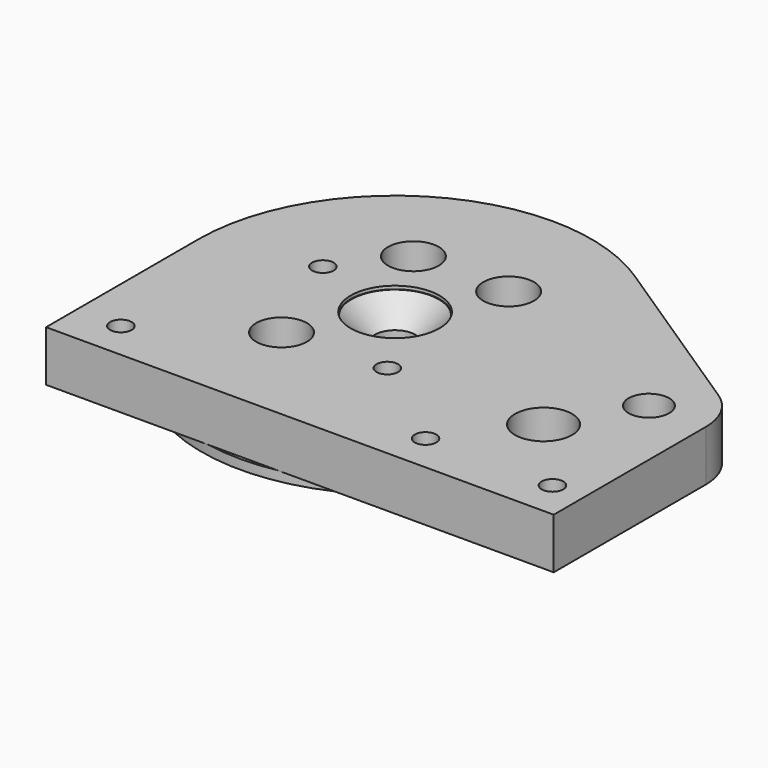
from build123d import *

# Parameters (mm, degrees)
SKETCH_R             = 3.2
SKETCH_R_2           = 1.7
SKETCH_R_3           = 4.5
SKETCH_R_4           = 4
SKETCH_W             = 1.5
SKETCH_H             = 4
PAD_DEPTH            = 8
SKETCH027_R          = 0.15
SKETCH028_R          = 0.15
SKETCH003_R          = 3.2
POCKET001_DEPTH      = 8.001
POCKET001_DEPTH_BACK = 0.001
SKETCH004_R          = 7
POCKET_DEPTH         = 0.5
SKETCH029_R          = 2.6
POCKET002_DEPTH      = 5
SKETCH030_R          = 30.5
SKETCH030_R_2        = 29.5
PAD001_DEPTH         = 1.5
CHAMFER_SIZE         = 3.7
CHAMFER001_SIZE      = 3.7


with BuildPart() as part:
    # Sketch → Pad (new body)
    with BuildSketch(Plane.XY):
        with BuildLine():
            Line((49, -30), (-31, -30))
            Line((-31, -30), (-31, 0))
            ThreePointArc((0, 31), (-21.92031, 21.92031), (-31, 0))
            ThreePointArc((17.05, 25.890104), (8.899628, 29.69506), (0, 31))
            Line((17.05, 25.890104), (44.95, 7.516482))
            ThreePointArc((49, 0), (47.923068, 4.269075), (44.95, 7.516482))
            Line((49, 0), (49, -30))
        make_face()
        with Locations((40, 0)):
            Circle(SKETCH_R, mode=Mode.SUBTRACT)
        with Locations((-24, -24)):
            Circle(SKETCH_R_2, mode=Mode.SUBTRACT)
        with Locations((24, -24)):
            Circle(SKETCH_R_2, mode=Mode.SUBTRACT)
        with Locations((-14.488887, 3.882286)):
            Circle(SKETCH_R_2, mode=Mode.SUBTRACT)
        with Locations((8.603647, -12.287281)):
            Circle(SKETCH_R_2, mode=Mode.SUBTRACT)
        with Locations((44, -24)):
            Circle(SKETCH_R_2, mode=Mode.SUBTRACT)
        with Locations((33, -12)):
            Circle(SKETCH_R_3, mode=Mode.SUBTRACT)
        with Locations((-7.5, 12.990381)):
            Circle(SKETCH_R_4, mode=Mode.SUBTRACT)
        with Locations((7.5, 12.990381)):
            Circle(SKETCH_R_4, mode=Mode.SUBTRACT)
        with Locations((-7.5, -12.990381)):
            Circle(SKETCH_R_4, mode=Mode.SUBTRACT)
        with Locations((0.75, 0)):
            Rectangle(SKETCH_W, SKETCH_H, mode=Mode.SUBTRACT)
    extrude(amount=PAD_DEPTH)

    # Sketch002 → Groove (revolve, cut)
    with BuildSketch(Plane.YZ):
        Polygon((23.112994, 0.4), (24.512994, 1.8), (25.487006, 1.8), (27.287006, 0), (27.287006, -10), (20, -10), (20, 0.4), align=None)
    revolve(axis=Axis((0, 0, 0), (0, 0, 1)), mode=Mode.SUBTRACT)

    # Sketch027 → Groove001 (revolve, cut)
    with BuildSketch(Plane.YZ):
        with Locations((22.67, 1.93)):
            Circle(SKETCH027_R)
    revolve(axis=Axis((0, 0, 0), (0, 0, 1)), mode=Mode.SUBTRACT)

    # Sketch028 → Groove002 (revolve, cut)
    with BuildSketch(Plane.YZ):
        with Locations((27.33, 1.93)):
            Circle(SKETCH028_R)
    revolve(axis=Axis((0, 0, 0), (0, 0, 1)), mode=Mode.SUBTRACT)

    # Sketch003 → Pocket001 (cut, two sides)
    with BuildSketch(Plane(origin=(0, 0, 0), x_dir=(1, 0, 0), z_dir=(0, 0, -1))) as pocket001_sk:
        Circle(SKETCH003_R)
    extrude(amount=-POCKET001_DEPTH, mode=Mode.SUBTRACT)
    extrude(pocket001_sk.sketch, amount=POCKET001_DEPTH_BACK, mode=Mode.SUBTRACT)

    # Sketch004 → Pocket (cut)
    with BuildSketch(Plane.XY.offset(8)):
        Circle(SKETCH004_R)
    extrude(amount=-POCKET_DEPTH, mode=Mode.SUBTRACT)

    # Sketch029 → Pocket002 (cut)
    with BuildSketch(Plane(origin=(0, 0, 0), x_dir=(1, 0, 0), z_dir=(0, 0, -1))):
        with Locations((-24, 24)):
            Circle(SKETCH029_R)
        with Locations((24, 24)):
            Circle(SKETCH029_R)
        with Locations((44, 24)):
            Circle(SKETCH029_R)
        with Locations((-14.488887, -3.882286)):
            Circle(SKETCH029_R)
        with Locations((8.603647, 12.287281)):
            Circle(SKETCH029_R)
    extrude(amount=-POCKET002_DEPTH, mode=Mode.SUBTRACT)

    # Sketch030 → Pad001 (new body)
    with BuildSketch(Plane(origin=(0, 0, 0), x_dir=(1, 0, 0), z_dir=(0, 0, -1))):
        Circle(SKETCH030_R)
        Circle(SKETCH030_R_2, mode=Mode.SUBTRACT)
    extrude(amount=PAD001_DEPTH)

    # Chamfer
    chamfer_edges = [part.edges().sort_by_distance(p)[0] for p in [
        (-3.2, 0, 7.5),
    ]]
    chamfer(chamfer_edges, length=CHAMFER_SIZE)

    # Chamfer001
    chamfer001_edges = [part.edges().sort_by_distance(p)[0] for p in [
        (36.8, 0, 0),
    ]]
    chamfer(chamfer001_edges, length=CHAMFER001_SIZE)


solid = part.part
